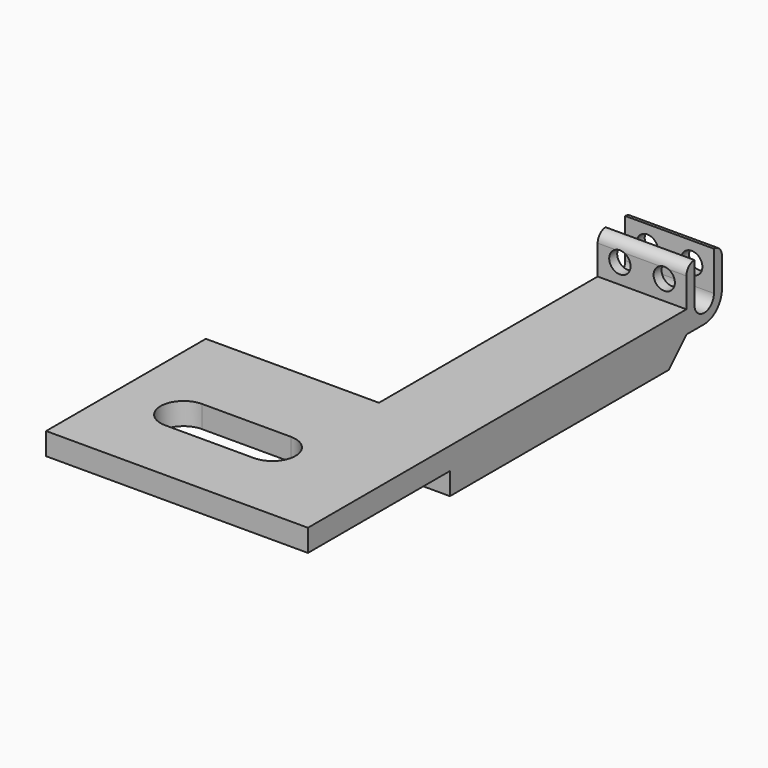
from build123d import *

# Parameters (mm, degrees)
PAD003_DEPTH         = 6.35
SKETCH015_R          = 1.524
POCKET003_DEPTH      = 4.7635
POCKET003_DEPTH_BACK = 1.5885
SKETCH016_W          = 3.175
SKETCH016_H          = 12.7
PAD008_DEPTH         = 67.7
SKETCH025_W          = 28.575
SKETCH025_H          = 24.775
PAD009_DEPTH         = 3.175
POCKET007_DEPTH      = 5.175996
PAD010_DEPTH         = 3.175
CHAMFER001_SIZE      = 3.1496


with BuildPart() as part:
    # Sketch014 → Pad003 (new body, symmetric)
    with BuildSketch(Plane.YZ.offset(15.25)):
        with BuildLine():
            ThreePointArc((-1.430625, 0), (0.315625, -1.74625), (2.061875, 0))
            Line((2.061875, 5.63), (2.061875, 0))
            ThreePointArc((3.490625, 4.20125), (3.072154, 5.211529), (2.061875, 5.63))
            Line((3.490625, 4.20125), (3.490625, 0))
            ThreePointArc((0.315625, -3.175), (2.560689, -2.245064), (3.490625, 0))
            Line((-2.859375, -3.175), (0.315625, -3.175))
            Line((-2.859375, 4.20125), (-2.859375, -3.175))
            ThreePointArc((-1.430625, 5.63), (-2.440904, 5.211529), (-2.859375, 4.20125))
            Line((-1.430625, 5.63), (-1.430625, 0))
        make_face()
    extrude(amount=PAD003_DEPTH, both=True)

    # Sketch015 (on Face72 of LinearPattern001) → Pocket003 (cut, two sides)
    with BuildSketch(Plane.XZ.offset(1.271875)) as pocket003_sk:
        with Locations((12.075, 2.815)):
            Circle(SKETCH015_R)
        with Locations((18.425, 2.815)):
            Circle(SKETCH015_R)
    extrude(amount=-POCKET003_DEPTH, mode=Mode.SUBTRACT)
    extrude(pocket003_sk.sketch, amount=POCKET003_DEPTH_BACK, mode=Mode.SUBTRACT)

    # Sketch016 (on Face8 of Pocket003) → Pad008 (join)
    with BuildSketch(Plane(origin=(15.25, -2.859375, 0), x_dir=(0, 0, -1), z_dir=(0, -1, 0))):
        with Locations((1.5875, 0)):
            Rectangle(SKETCH016_W, SKETCH016_H)
    extrude(amount=PAD008_DEPTH)

    # Sketch025 (on Face16 of Pad008) → Pad009 (join)
    with BuildSketch(Plane(origin=(15.25, 0, 0), x_dir=(0, -1, 0), z_dir=(0, 0, 1))):
        with Locations((56.271875, -18.7375)):
            Rectangle(SKETCH025_W, SKETCH025_H)
    extrude(amount=-PAD009_DEPTH)

    # Sketch026 (on Face29 of Pad015) → Pocket007 (cut, through all)
    with BuildSketch(Plane(origin=(15.25, 0, 1.999996), x_dir=(0, -1, 0), z_dir=(0, 0, 1))):
        with BuildLine():
            ThreePointArc((61.161375, -8.9), (57.859375, -5.598), (54.557375, -8.9))
            Line((54.557375, -8.9), (54.557375, -21.6))
            ThreePointArc((54.557375, -21.6), (57.859375, -24.902), (61.161375, -21.6))
            Line((61.161375, -21.6), (61.161375, -8.9))
        make_face()
    extrude(amount=-POCKET007_DEPTH, mode=Mode.SUBTRACT)

    # Sketch027 (on Face24 of Pocket007) → Pad010 (join)
    with BuildSketch(Plane(origin=(15.25, 0, -3.175), x_dir=(0, 1, 0), z_dir=(0, 0, -1))):
        Polygon((-2.859375, 6.35), (-45.159375, 6.35), (-45.159375, -31.125), (-41.984375, -31.125), (-41.984375, 3.175), (-2.859375, 3.175), align=None)
    extrude(amount=PAD010_DEPTH)

    # Chamfer001
    chamfer001_edges = [part.edges().sort_by_distance(p)[0] for p in [
        (20.0125, -2.859375, -6.35),
        (-15.875, -43.571875, -6.35),
    ]]
    chamfer(chamfer001_edges, length=CHAMFER001_SIZE)


solid = part.part
